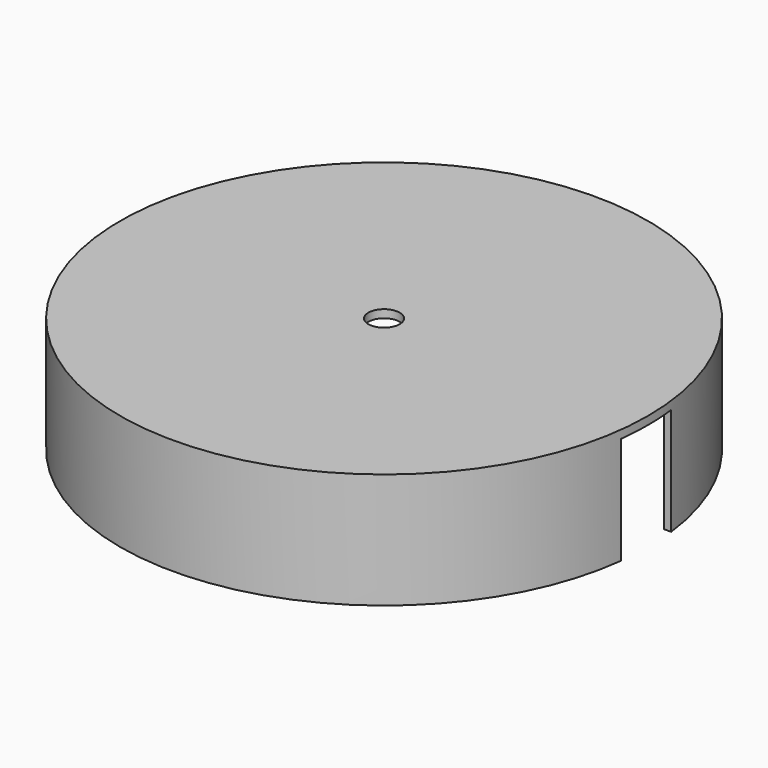
from build123d import *

# Parameters (mm, degrees)
F0_R     = 29.5
F0_R_2   = 1.75
F1_DEPTH = 0.9
F2_R     = 29.5
F2_R_2   = 28.7
F3_DEPTH = 12
F4_W     = 59
F4_H     = 7
F5_DEPTH = 12


with BuildPart() as f1:
    # F0 (on Top) → F1 (new body)
    with BuildSketch(Plane.XY):
        Circle(F0_R)
        Circle(F0_R_2, mode=Mode.SUBTRACT)
    extrude(amount=F1_DEPTH)

    # F2 (on face) → F3 (join)
    with BuildSketch(Plane(origin=(0, 0, 0), x_dir=(1, 0, 0), z_dir=(0, 0, -1))):
        Circle(F2_R)
        Circle(F2_R_2, mode=Mode.SUBTRACT)
    extrude(amount=F3_DEPTH)

    # F4 (on face) → F5 (cut, through all)
    with BuildSketch(Plane(origin=(0, 0, -12), x_dir=(1, 0, 0), z_dir=(0, 0, -1))):
        Rectangle(F4_W, F4_H)
    extrude(amount=-F5_DEPTH, mode=Mode.SUBTRACT)


solid = f1.part
